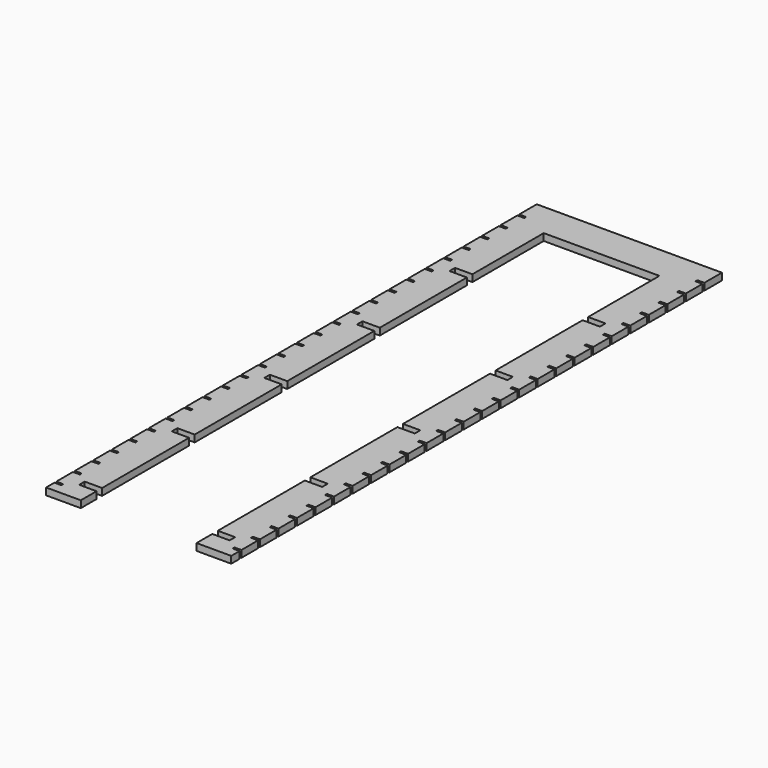
from build123d import *

# Parameters (mm, degrees)
PAD_DEPTH              = 1.5
SKETCH001_W            = 65
SKETCH001_H            = 3
POCKET_DEPTH           = 2.5
LINEARPATTERN_COUNT    = 5
LINEARPATTERN_PITCH    = 50
SKETCH002_W            = 8
SKETCH002_H            = 1
POCKET001_DEPTH        = 2.5
LINEARPATTERN001_COUNT = 26
LINEARPATTERN001_PITCH = 10


with BuildPart() as part:
    # Sketch → Pad (new body, symmetric)
    with BuildSketch(Plane.XY):
        Polygon((-25, 0), (-25, 250), (25, 250), (25, 0), (40, 0), (40, 265), (-40, 265), (-40, 0), align=None)
    extrude(amount=PAD_DEPTH, both=True)

    # Sketch001 → Pocket (cut, symmetric)
    with BuildSketch(Plane(origin=(0, 10, 0), x_dir=(1, 0, 0), z_dir=(0, 0, 1))):
        Rectangle(SKETCH001_W, SKETCH001_H)
    pocket = extrude(amount=POCKET_DEPTH, both=True, mode=Mode.SUBTRACT)

    # LinearPattern: Pocket ×5
    with Locations(*[(0, i * LINEARPATTERN_PITCH, 0) for i in range(1, LINEARPATTERN_COUNT)]):
        add(pocket, mode=Mode.SUBTRACT)

    # Sketch002 → Pocket001 (cut, symmetric)
    with BuildSketch(Plane(origin=(0, 5, 0), x_dir=(1, 0, 0), z_dir=(0, 0, 1))):
        with Locations((-41, 0)):
            Rectangle(SKETCH002_W, SKETCH002_H)
        with Locations((41, 0)):
            Rectangle(SKETCH002_W, SKETCH002_H)
    pocket001 = extrude(amount=POCKET001_DEPTH, both=True, mode=Mode.SUBTRACT)

    # LinearPattern001: Pocket001 ×26
    with Locations(*[(0, i * LINEARPATTERN001_PITCH, 0) for i in range(1, LINEARPATTERN001_COUNT)]):
        add(pocket001, mode=Mode.SUBTRACT)


solid = part.part
